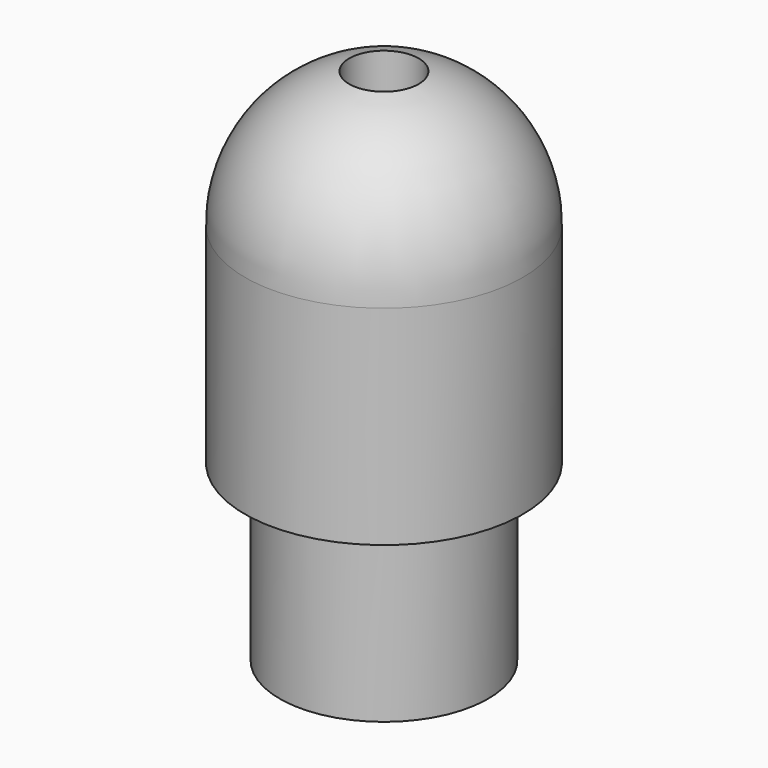
from build123d import *


with BuildPart() as part:
    # Sketch → Revolution (revolve)
    with BuildSketch(Plane(origin=(0, 0, 300), x_dir=(0, 0, -1), z_dir=(1, 0, 0))):
        with BuildLine():
            Line((0, 4), (6, 4))
            Line((6, 4), (6, 3))
            Line((6, 3), (11, 3))
            Line((11, 3), (11, 1.5))
            Line((11, 1.5), (8, 1.5))
            Line((8, 1.5), (8, 1))
            Line((8, 1), (-3.925111, 1))
            ThreePointArc((0, 4), (-2.481046, 3.178377), (-3.925111, 1))
        make_face()
    revolve(axis=Axis((0, 0, 300), (0, 0, -1)))


solid = part.part
